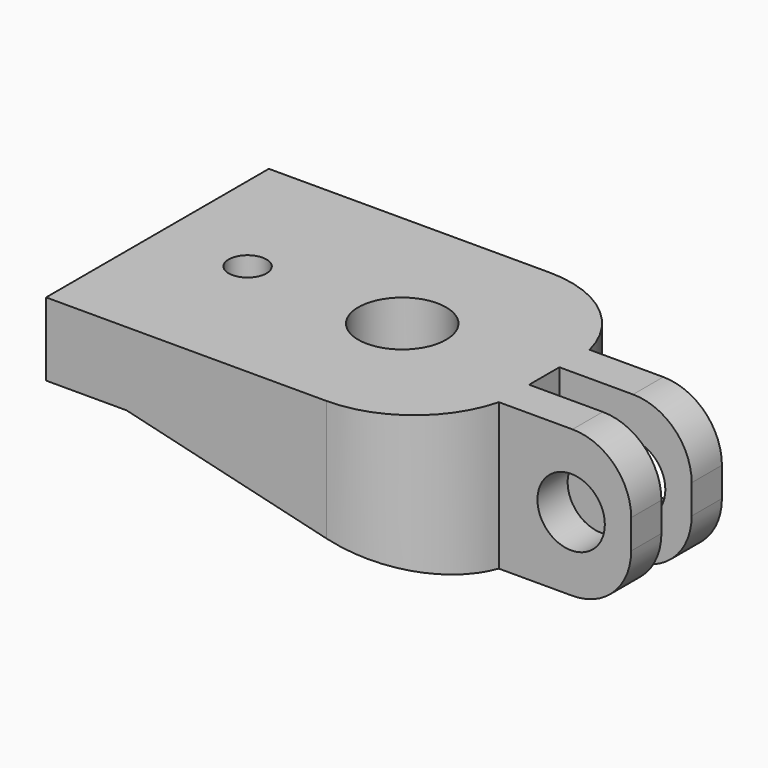
from build123d import *

# Parameters (mm, degrees)
F0_R     = 3.81
F1_DEPTH = 12.7
F3_R     = 5.08
F2_R     = 2.921
F4_DEPTH = 16.9809
F6_DEPTH = 24.131
F7_R     = 1.6383
F8_DEPTH = 25.4


with BuildPart() as f1:
    # F0 (on Top) → F1 (new body)
    with BuildSketch(Plane.XY):
        with BuildLine():
            Line((11.376741, 12.065), (-12.94174, 12.065))
            Line((-12.94174, 12.065), (-12.94174, -12.065))
            Line((-12.94174, -12.065), (11.376741, -12.065))
            ThreePointArc((11.376741, -12.065), (17.201771, -10.067217), (20.574564, -4.9149))
            Line((20.574564, -4.9149), (32.037482, -4.9149))
            Line((32.037482, -4.9149), (32.037482, -1.6383))
            Line((32.037482, -1.6383), (20.574564, -1.6383))
            Line((20.574564, -1.6383), (20.574564, 1.6383))
            Line((20.574564, 1.6383), (32.037482, 1.6383))
            Line((32.037482, 1.6383), (32.037482, 4.9149))
            Line((32.037482, 4.9149), (20.574564, 4.9149))
            ThreePointArc((20.574564, 4.9149), (17.201771, 10.067217), (11.376741, 12.065))
        make_face()
        with Locations((8.26726, 0)):
            Circle(F0_R, mode=Mode.SUBTRACT)
        with BuildLine():
            Line((11.376741, 12.065), (-12.94174, 12.065))
            Line((-12.94174, 12.065), (-12.94174, -12.065))
            Line((-12.94174, -12.065), (11.376741, -12.065))
            ThreePointArc((11.376741, -12.065), (17.201771, -10.067217), (20.574564, -4.9149))
            Line((20.574564, -4.9149), (32.037482, -4.9149))
            Line((32.037482, -4.9149), (32.037482, -1.6383))
            Line((32.037482, -1.6383), (20.574564, -1.6383))
            Line((20.574564, -1.6383), (20.574564, 1.6383))
            Line((20.574564, 1.6383), (32.037482, 1.6383))
            Line((32.037482, 1.6383), (32.037482, 4.9149))
            Line((32.037482, 4.9149), (20.574564, 4.9149))
            ThreePointArc((20.574564, 4.9149), (17.201771, 10.067217), (11.376741, 12.065))
        make_face()
        with Locations((8.26726, 0)):
            Circle(F0_R, mode=Mode.SUBTRACT)
        with BuildLine():
            Line((11.376741, 12.065), (-12.94174, 12.065))
            Line((-12.94174, 12.065), (-12.94174, -12.065))
            Line((-12.94174, -12.065), (11.376741, -12.065))
            ThreePointArc((11.376741, -12.065), (17.201771, -10.067217), (20.574564, -4.9149))
            Line((20.574564, -4.9149), (32.037482, -4.9149))
            Line((32.037482, -4.9149), (32.037482, -1.6383))
            Line((32.037482, -1.6383), (20.574564, -1.6383))
            Line((20.574564, -1.6383), (20.574564, 1.6383))
            Line((20.574564, 1.6383), (32.037482, 1.6383))
            Line((32.037482, 1.6383), (32.037482, 4.9149))
            Line((32.037482, 4.9149), (20.574564, 4.9149))
            ThreePointArc((20.574564, 4.9149), (17.201771, 10.067217), (11.376741, 12.065))
        make_face()
        with Locations((8.26726, 0)):
            Circle(F0_R, mode=Mode.SUBTRACT)
    extrude(amount=F1_DEPTH)

    # F3
    f3_edges = [f1.edges().sort_by_distance(p)[0] for p in [
        (32.037482, -3.2766, 12.7),
        (32.037482, 3.2766, 12.7),
        (32.037482, -3.2766, 0),
        (32.037482, 3.2766, 0),
    ]]
    fillet(f3_edges, radius=F3_R)

    # F2 (on face) → F4 (cut, through all)
    with BuildSketch(Plane.XZ.offset(4.9149)):
        with Locations((26.8351, 6.35)):
            Circle(F2_R)
    extrude(amount=-F4_DEPTH, mode=Mode.SUBTRACT)

    # F5 (on face) → F6 (cut, through all)
    with BuildSketch(Plane.XZ.offset(12.065)):
        Polygon((-5.969032, 6.35), (-12.94174, 6.35), (-12.94174, 0), (11.376741, 0), (11.376741, 2.202417), align=None)
        Polygon((20.58756, 0), (11.376741, 2.202417), (11.376741, 0), align=None)
    extrude(amount=-F6_DEPTH, mode=Mode.SUBTRACT)

    # F7 (on face) → F8 (cut)
    with BuildSketch(Plane.XY.offset(12.7)):
        with Locations((-5.13124, 0)):
            Circle(F7_R)
    extrude(amount=-F8_DEPTH, mode=Mode.SUBTRACT)


solid = f1.part
